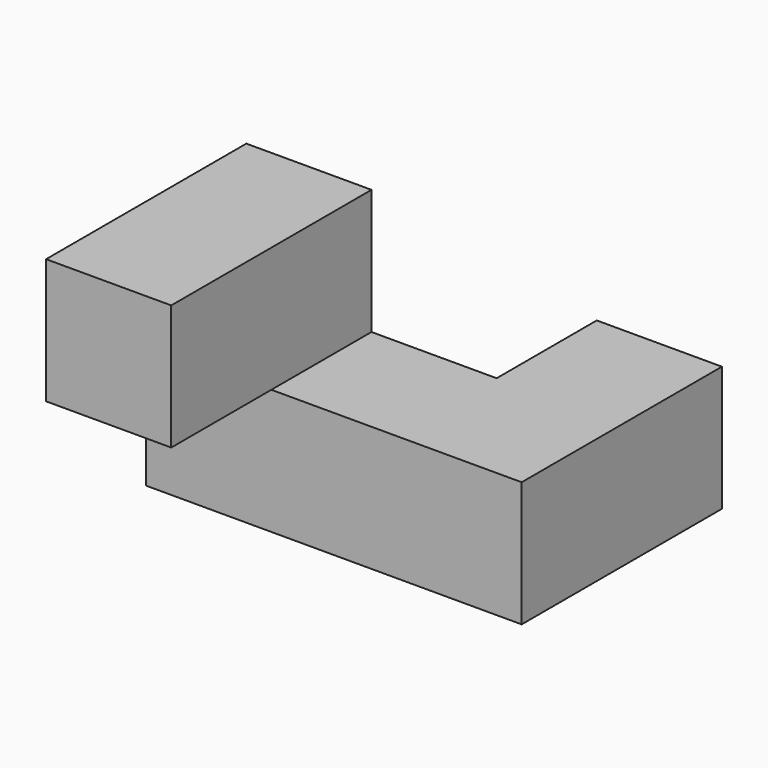
from build123d import *

# Parameters (mm, degrees)
F0_W     = 76.2
F0_H     = 25.4
F1_DEPTH = 25.4
F2_W     = 25.4
F2_H     = 25.4
F3_DEPTH = 25.4
F4_W     = 25.4
F4_H     = 25.4
F5_DEPTH = 25.4
F6_W     = 25.4
F6_H     = 25.4
F7_DEPTH = 25.4


with BuildPart() as f1:
    # F0 (on Front) → F1 (new body)
    with BuildSketch(Plane.XZ):
        with Locations((5.309489, -4.486644)):
            Rectangle(F0_W, F0_H)
    extrude(amount=F1_DEPTH)

    # F2 (on face) → F3 (join)
    with BuildSketch(Plane(origin=(0, 0, 0), x_dir=(-1, 0, 0), z_dir=(0, 1, 0))):
        with Locations((-30.709489, -4.486644)):
            Rectangle(F2_W, F2_H)
    extrude(amount=F3_DEPTH)

    # F4 (on face) → F5 (join)
    with BuildSketch(Plane.XY.offset(8.213356)):
        with Locations((-20.090511, -12.7)):
            Rectangle(F4_W, F4_H)
    extrude(amount=F5_DEPTH)

    # F6 (on face) → F7 (join)
    with BuildSketch(Plane.XZ.offset(25.4)):
        with Locations((-20.090511, 20.913356)):
            Rectangle(F6_W, F6_H)
    extrude(amount=F7_DEPTH)


solid = f1.part
